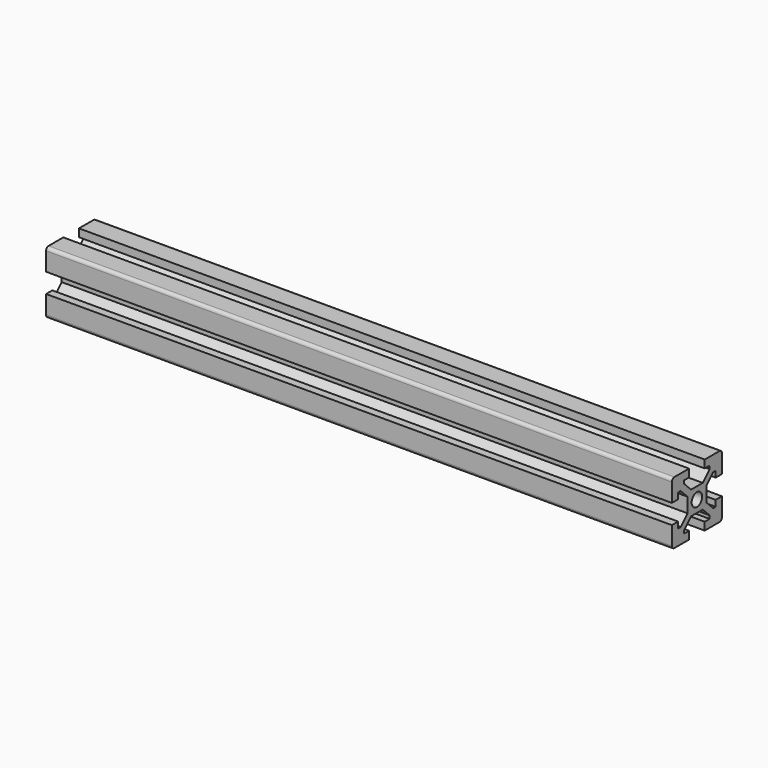
from build123d import *

# Parameters (mm, degrees)
PAD_DEPTH          = 200
POCKET_DEPTH       = 603.981198
POLARPATTERN_COUNT = 4
SKETCH002_R        = 2.1
POCKET001_DEPTH    = 200.001


with BuildPart() as part:
    # Sketch → Pad (new body)
    with BuildSketch(Plane.YZ):
        with BuildLine():
            Line((-9, 10), (9, 10))
            ThreePointArc((10, 9), (9.707107, 9.707107), (9, 10))
            Line((10, 9), (10, -9))
            ThreePointArc((9, -10), (9.707107, -9.707107), (10, -9))
            Line((9, -10), (-9, -10))
            ThreePointArc((-10, -9), (-9.707107, -9.707107), (-9, -10))
            Line((-10, -9), (-10, 9))
            ThreePointArc((-9, 10), (-9.707107, 9.707107), (-10, 9))
        make_face()
    extrude(amount=PAD_DEPTH)

    # Sketch001 (on Face10 of Pad) → Pocket (cut, through all)
    with BuildSketch(Plane.YZ.offset(200)):
        Polygon((-3.125, 10), (3.125, 10), (3.125, 7.5), (5.085786, 7.5), (5.085786, 6.5), (2.335786, 3.75), (-2.335786, 3.75), (-5.085786, 6.5), (-5.085786, 7.5), (-3.125, 7.5), align=None)
    pocket = extrude(amount=-POCKET_DEPTH, mode=Mode.SUBTRACT)

    # PolarPattern: Pocket ×4 about axis
    polarpattern_axis = Axis((200, 0, 0), (1, 0, 0))
    for i in range(1, POLARPATTERN_COUNT):
        add(pocket.rotate(polarpattern_axis, i * 360 / POLARPATTERN_COUNT), mode=Mode.SUBTRACT)

    # Sketch002 (on Face4 of PolarPattern) → Pocket001 (cut, through all)
    with BuildSketch(Plane.YZ.offset(200)):
        Circle(SKETCH002_R)
    extrude(amount=-POCKET001_DEPTH, mode=Mode.SUBTRACT)


with BuildPart() as part_1:
    # Body001 placement: moved
    add(part.part.moved(Location((0, 0, -76))))


solid = part_1.part
